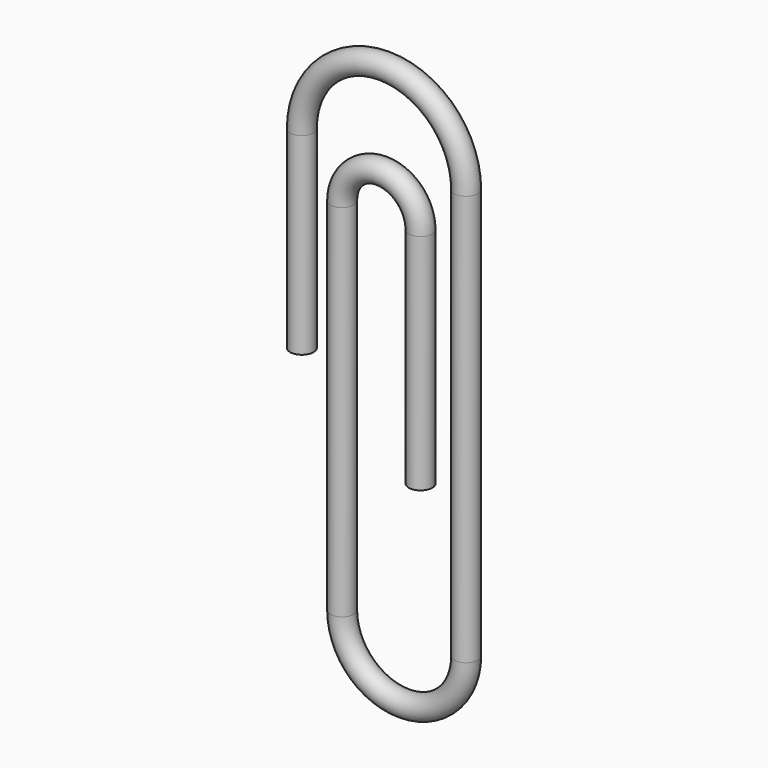
from build123d import *

# Parameters (mm, degrees)
F0_R = 2.952631


with BuildPart() as f2:
    # F2: sweep along a path in F1
    with BuildLine(Plane.XZ) as f2_path:
        Line((0, 0), (0, 48.655018))
        ThreePointArc((0, 48.655018), (20.717092, 69.37211), (41.434184, 48.655018))
        Line((41.434184, 48.655018), (41.434184, -54.900009))
        ThreePointArc((41.434184, -54.900009), (25.797669, -70.536524), (10.161155, -54.900009))
        Line((10.161155, -54.900009), (10.161155, 35.968788))
        ThreePointArc((10.161155, 35.968788), (20.044611, 45.852244), (29.928068, 35.968788))
        Line((29.928068, 35.968788), (29.928068, -20.381667))
    # F0 (on Top) → F2 (sweep)
    with BuildSketch(Plane.XY):
        Circle(F0_R)
    sweep(path=f2_path.line)


solid = f2.part
